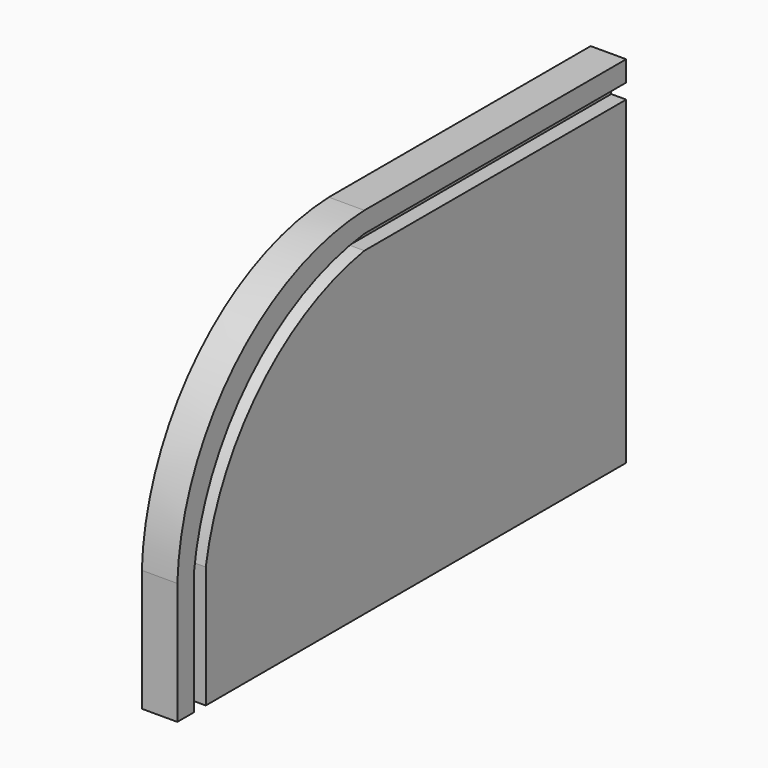
from build123d import *

# Parameters (mm, degrees)
F1_DEPTH = 19
F3_DEPTH = 8


with BuildPart() as f1:
    # F0 (on Right) → F1 (new body)
    with BuildSketch(Plane.YZ):
        with BuildLine():
            Line((150, 95), (-25, 95))
            ThreePointArc((-25, 95), (-111.955644, 57.084235), (-150, -29.815225))
            Line((-150, -29.815225), (-150, -40))
            Line((-150, -40), (-150, -95))
            Line((-150, -95), (150, -95))
            Line((150, -95), (150, 95))
        make_face()
    extrude(amount=F1_DEPTH)

    # F2 (on face) → F3 (cut)
    with BuildSketch(Plane.YZ.offset(19)):
        with BuildLine():
            Line((150, 76), (150, 84))
            Line((150, 84), (-25, 84))
            ThreePointArc((-25, 84), (-101.75341, 46.877867), (-139, -29.815225))
            Line((-139, -29.815225), (-139, -95))
            Line((-139, -95), (-131, -95))
            Line((-131, -95), (-131, -29.815225))
            ThreePointArc((-131, -29.815225), (-94.770081, 39.891752), (-25, 76))
            Line((-25, 76), (150, 76))
        make_face()
    extrude(amount=-F3_DEPTH, mode=Mode.SUBTRACT)


solid = f1.part
